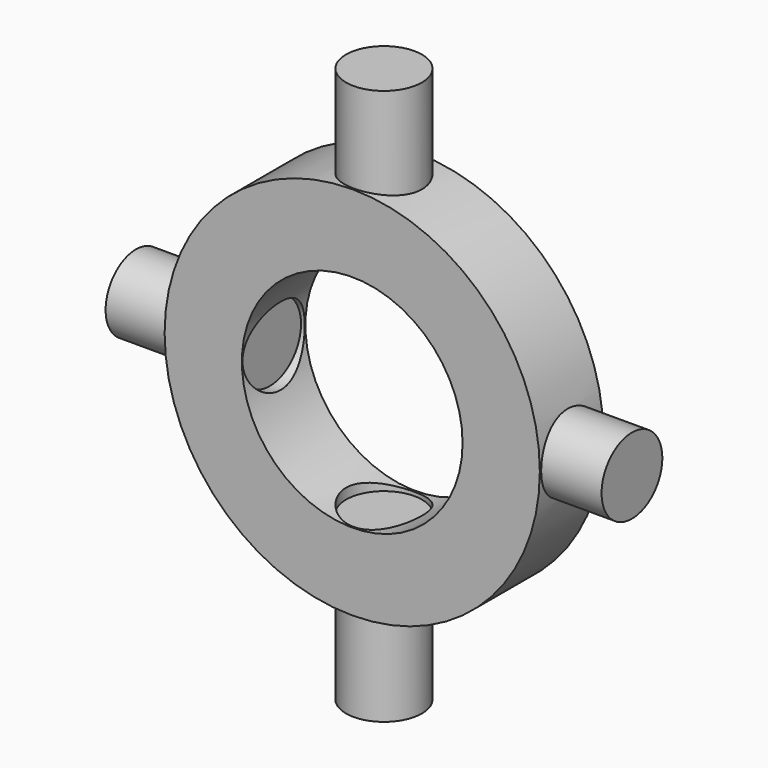
from build123d import *

# Parameters (mm, degrees)
F0_R          = 18.9135358378
F0_R_2        = 11.1250506431
F1_DEPTH      = 4
F1_DEPTH_BACK = 4
F2_R          = 3.8258628395
F3_DEPTH      = 28
F3_DEPTH_BACK = 28
F4_R          = 3.8258764398
F5_DEPTH      = 11.5
F5_DEPTH_BACK = 11.5
F6_R          = 3.830099353
F7_DEPTH      = 25
F7_DEPTH_BACK = 25
F8_R          = 3.9189417201
F9_DEPTH      = 11.5
F9_DEPTH_BACK = 11.5


with BuildPart() as f1:
    # F0 (on Front) → F1 (new body, two sides)
    with BuildSketch(Plane.XZ) as f1_sk:
        Circle(F0_R)
        Circle(F0_R_2, mode=Mode.SUBTRACT)
    extrude(amount=F1_DEPTH)
    extrude(f1_sk.sketch, amount=-F1_DEPTH_BACK)

    # F2 (on Top) → F3 (join, two sides)
    with BuildSketch(Plane.XY) as f3_sk:
        Circle(F2_R)
    extrude(amount=F3_DEPTH)
    extrude(f3_sk.sketch, amount=-F3_DEPTH_BACK)

    # F4 (on Top) → F5 (cut, two sides)
    with BuildSketch(Plane.XY) as f5_sk:
        Circle(F4_R)
    extrude(amount=-F5_DEPTH, mode=Mode.SUBTRACT)
    extrude(f5_sk.sketch, amount=F5_DEPTH_BACK, mode=Mode.SUBTRACT)

    # F6 (on Right) → F7 (join, two sides)
    with BuildSketch(Plane.YZ) as f7_sk:
        Circle(F6_R)
    extrude(amount=F7_DEPTH)
    extrude(f7_sk.sketch, amount=-F7_DEPTH_BACK)

    # F8 (on Right) → F9 (cut, two sides)
    with BuildSketch(Plane.YZ) as f9_sk:
        Circle(F8_R)
    extrude(amount=-F9_DEPTH, mode=Mode.SUBTRACT)
    extrude(f9_sk.sketch, amount=F9_DEPTH_BACK, mode=Mode.SUBTRACT)


solid = f1.part
